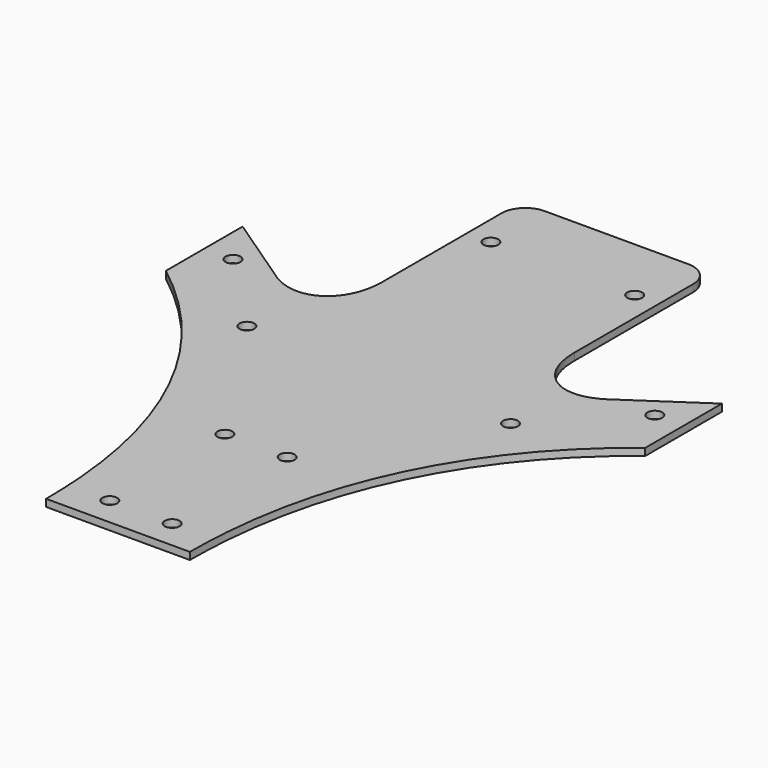
from build123d import *

# Parameters (mm, degrees)
F1_R     = 1.55
F2_DEPTH = 1.5


with BuildPart() as f2:
    # F1 (on Top) → F2 (new body)
    with BuildSketch(Plane.XY):
        with BuildLine():
            Line((15, 65), (0, 65))
            Line((0, 65), (-15, 65))
            ThreePointArc((-15, 65), (-18.535534, 63.535534), (-20, 60))
            Line((-20, 60), (-20, 29))
            add(Edge.make_bspline(
                [(-20, 29), (-20, 19.597625), (-27.157306, 15.03714), (-34.248286, 19.375335)],
                knots=[0, 0, 0, 0, 17.194413, 17.194413, 17.194413, 17.194413], degree=3))
            Line((-34.248286, 19.375335), (-50, 30))
            Line((-50, 30), (-50, 10))
            add(Edge.make_bspline(
                [(-50, 10), (-29.530469, -5.725626), (-15, -30.624207), (-15, -65)],
                knots=[0, 0, 0, 0, 82.764727, 82.764727, 82.764727, 82.764727], degree=3))
            Line((-15, -65), (0, -65))
            Line((0, -65), (15, -65))
            add(Edge.make_bspline(
                [(50, 10), (29.530469, -5.725626), (15, -30.624207), (15, -65)],
                knots=[0, 0, 0, 0, 82.764727, 82.764727, 82.764727, 82.764727], degree=3))
            Line((50, 10), (50, 30))
            Line((50, 30), (34.248286, 19.375335))
            add(Edge.make_bspline(
                [(20, 29), (20, 19.597625), (27.157306, 15.03714), (34.248286, 19.375335)],
                knots=[0, 0, 0, 0, 17.194413, 17.194413, 17.194413, 17.194413], degree=3))
            Line((20, 29), (20, 60))
            ThreePointArc((20, 60), (18.535534, 63.535534), (15, 65))
        make_face()
        with Locations((-6.5, -59)):
            Circle(F1_R, mode=Mode.SUBTRACT)
        with Locations((-6.5, -29)):
            Circle(F1_R, mode=Mode.SUBTRACT)
        with Locations((6.5, -59)):
            Circle(F1_R, mode=Mode.SUBTRACT)
        with Locations((6.5, -29)):
            Circle(F1_R, mode=Mode.SUBTRACT)
        with Locations((-27.5, 3)):
            Circle(F1_R, mode=Mode.SUBTRACT)
        with Locations((-44, 20)):
            Circle(F1_R, mode=Mode.SUBTRACT)
        with Locations((-15, 51)):
            Circle(F1_R, mode=Mode.SUBTRACT)
        with Locations((27.5, 3)):
            Circle(F1_R, mode=Mode.SUBTRACT)
        with Locations((44, 20)):
            Circle(F1_R, mode=Mode.SUBTRACT)
        with Locations((15, 51)):
            Circle(F1_R, mode=Mode.SUBTRACT)
    extrude(amount=F2_DEPTH)


solid = f2.part
